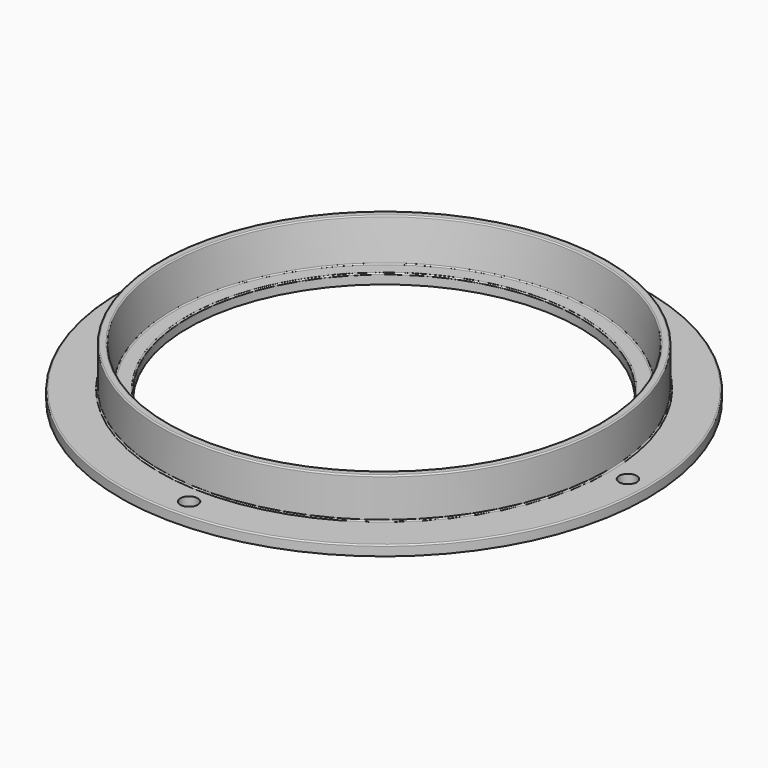
from build123d import *

# Parameters (mm, degrees)
F2_R     = 0.25
F3_R     = 1.75
F4_DEPTH = 10.001


with BuildPart() as f1:
    # F0 (on Front) → F1 (revolve)
    with BuildSketch(Plane.XZ):
        Polygon((39.000026, 1.987482), (39.000026, 0), (52.5, 0), (52.5, 2), (44.5, 2), (44.5, 10), (43, 10), (42, 2), align=None)
    revolve(axis=Axis((0, 0, 23.853475), (0, 0, 1)))

    # F2
    f2_edges = [f1.edges().sort_by_distance(p)[0] for p in [
        (-43, 0, 10),
        (-44.5, 0, 10),
        (-44.5, 0, 2),
        (-52.5, 0, 2),
        (-42, 0, 2),
        (-39.000026, 0, 1.987482),
    ]]
    fillet(f2_edges, radius=F2_R)

    # F3 (on Top) → F4 (cut, through all)
    with BuildSketch(Plane.XY):
        with Locations((48.5, 0)):
            Circle(F3_R)
        with Locations((0, 48.5)):
            Circle(F3_R)
        with Locations((-48.5, 0)):
            Circle(F3_R)
        with Locations((0, -48.5)):
            Circle(F3_R)
    extrude(amount=F4_DEPTH, mode=Mode.SUBTRACT)


solid = f1.part
